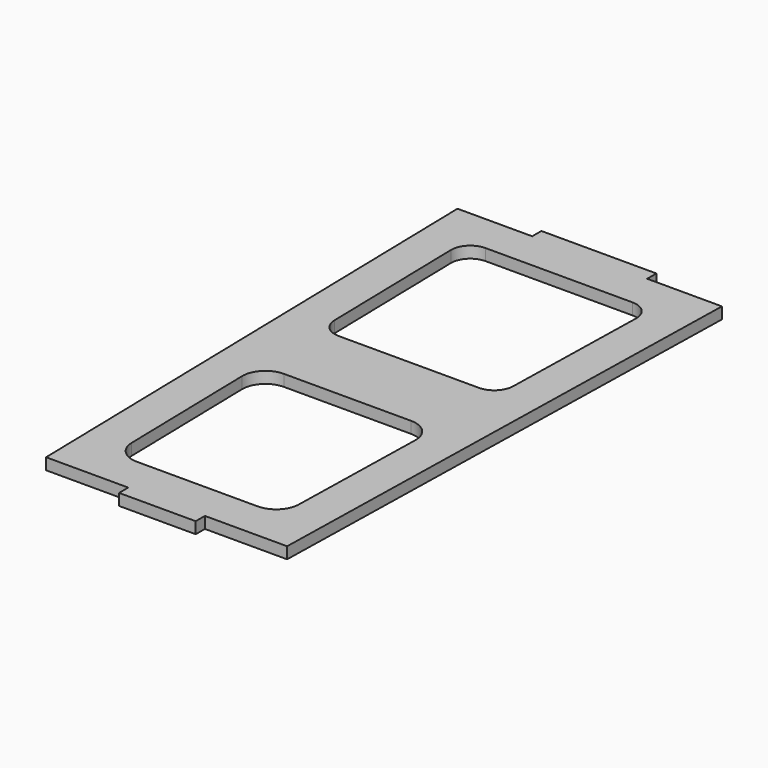
from build123d import *

# Parameters (mm, degrees)
F1_DEPTH = 3


with BuildPart() as f1:
    # F0 (on Top) → F1 (new body)
    with BuildSketch(Plane.XY):
        Polygon((15, 72), (0, 72), (-15, 72), (-15, 69), (-34.5, 69), (-31.444445, -69), (-10, -69), (-10, -72), (0, -72), (10, -72), (10, -69), (31.444445, -69), (34.5, 69), (15, 69), align=None)
        with BuildLine():
            ThreePointArc((-22.612564, -16.132817), (-20.903376, -11.80458), (-16.614034, -10))
            Line((-16.614034, -10), (16.614034, -10))
            ThreePointArc((16.614034, -10), (20.903376, -11.80458), (22.612564, -16.132817))
            Line((22.612564, -16.132817), (21.793321, -53.132818))
            ThreePointArc((21.793321, -53.132818), (19.990211, -57.289342), (15.794791, -59))
            Line((15.794791, -59), (-15.794791, -59))
            ThreePointArc((-15.794791, -59), (-19.990211, -57.289342), (-21.793321, -53.132818))
            Line((-21.793321, -53.132818), (-22.612564, -16.132817))
        make_face(mode=Mode.SUBTRACT)
        with BuildLine():
            Line((18.300672, 10), (-18.300672, 10))
            ThreePointArc((-18.300672, 10), (-21.796855, 11.425549), (-23.299446, 14.889319))
            Line((-23.299446, 14.889319), (-24.162973, 53.889319))
            ThreePointArc((-24.162973, 53.889319), (-22.738649, 57.496183), (-19.164198, 59))
            Line((-19.164198, 59), (19.164198, 59))
            ThreePointArc((19.164198, 59), (22.738649, 57.496183), (24.162973, 53.889319))
            Line((24.162973, 53.889319), (23.299446, 14.889319))
            ThreePointArc((23.299446, 14.889319), (21.796855, 11.425549), (18.300672, 10))
        make_face(mode=Mode.SUBTRACT)
    extrude(amount=F1_DEPTH)


solid = f1.part
